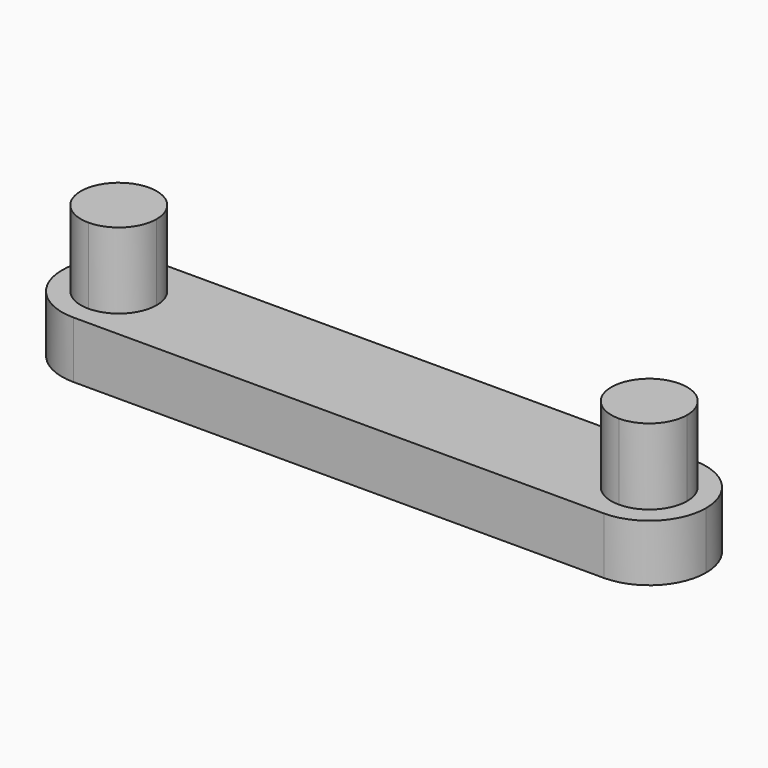
from build123d import *

# Parameters (mm, degrees)
F0_W     = 4
F0_H     = 6
F1_DEPTH = 3
F2_DEPTH = 7


with BuildPart() as f1:
    # F0 (on Top) → F1 (new body)
    with BuildSketch(Plane.XY):
        Rectangle(F0_W, F0_H)
        with BuildLine():
            Line((14, 3), (2, 3))
            Line((2, 3), (2, -3))
            Line((2, -3), (14, -3))
            ThreePointArc((14, -3), (11, 0), (14, 3))
        make_face()
        with BuildLine():
            Line((-2, -3), (-2, 3))
            Line((-2, 3), (-14, 3))
            ThreePointArc((-14, 3), (-11.8786796564, 2.1213203436), (-11, 0))
            ThreePointArc((-11, 0), (-11.8786796564, -2.1213203436), (-14, -3))
            Line((-14, -3), (-2, -3))
        make_face()
        with BuildLine():
            ThreePointArc((17, 0), (16.1213203436, 2.1213203436), (14, 3))
            Line((14, 3), (14, 2))
            ThreePointArc((14, 2), (15.4142135624, 1.4142135624), (16, 0))
            ThreePointArc((16, 0), (15.4142135624, -1.4142135624), (14, -2))
            Line((14, -2), (14, -3))
            ThreePointArc((14, -3), (16.1213203436, -2.1213203436), (17, 0))
        make_face()
        with BuildLine():
            Line((14, 2), (14, 3))
            ThreePointArc((14, 3), (11, 0), (14, -3))
            Line((14, -3), (14, -2))
            ThreePointArc((14, -2), (12, 0), (14, 2))
        make_face()
        with BuildLine():
            ThreePointArc((-11, 0), (-11.8786796564, 2.1213203436), (-14, 3))
            Line((-14, 3), (-14, 2))
            ThreePointArc((-14, 2), (-12.5857864376, 1.4142135624), (-12, 0))
            ThreePointArc((-12, 0), (-12.5857864376, -1.4142135624), (-14, -2))
            Line((-14, -2), (-14, -3))
            ThreePointArc((-14, -3), (-11.8786796564, -2.1213203436), (-11, 0))
        make_face()
        with BuildLine():
            Line((-14, 2), (-14, 3))
            ThreePointArc((-14, 3), (-17, 0), (-14, -3))
            Line((-14, -3), (-14, -2))
            ThreePointArc((-14, -2), (-16, 0), (-14, 2))
        make_face()
    extrude(amount=F1_DEPTH)

    # F0 (on Top) → F2 (join)
    with BuildSketch(Plane.XY):
        with BuildLine():
            Line((14, -2), (14, 2))
            ThreePointArc((14, 2), (12, 0), (14, -2))
        make_face()
        with BuildLine():
            ThreePointArc((16, 0), (15.4142135624, 1.4142135624), (14, 2))
            Line((14, 2), (14, -2))
            ThreePointArc((14, -2), (15.4142135624, -1.4142135624), (16, 0))
        make_face()
        with BuildLine():
            ThreePointArc((-12, 0), (-12.5857864376, 1.4142135624), (-14, 2))
            Line((-14, 2), (-14, -2))
            ThreePointArc((-14, -2), (-12.5857864376, -1.4142135624), (-12, 0))
        make_face()
        with BuildLine():
            Line((-14, -2), (-14, 2))
            ThreePointArc((-14, 2), (-16, 0), (-14, -2))
        make_face()
    extrude(amount=F2_DEPTH)


solid = f1.part
